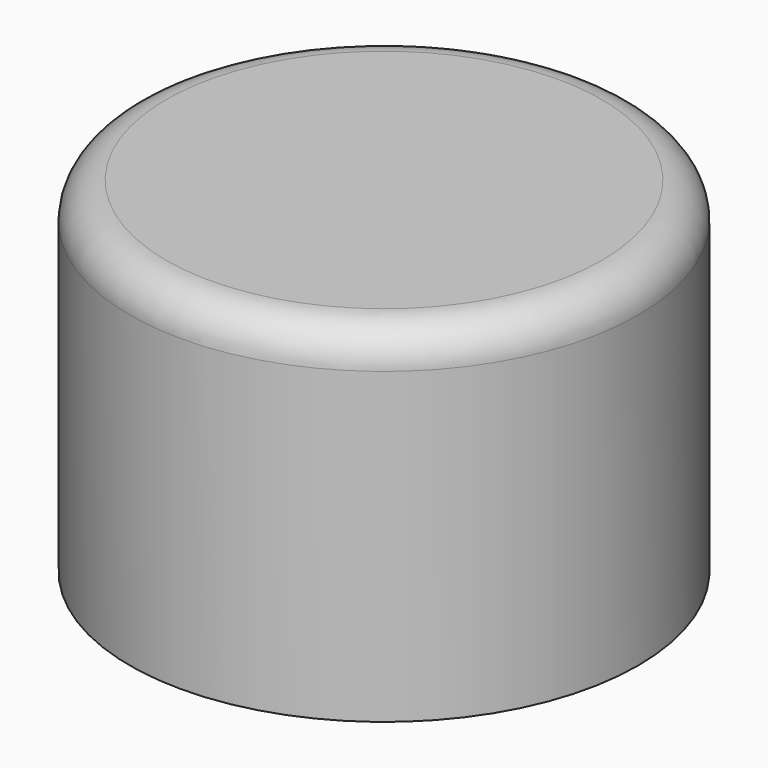
from build123d import *

# Parameters (mm, degrees)
F0_R     = 14
F0_R_2   = 12
F1_DEPTH = 16
F3_DEPTH = 2.5
F4_R     = 14
F5_DEPTH = 3
F6_R     = 2


with BuildPart() as f1:
    # F0 (on Top) → F1 (new body)
    with BuildSketch(Plane.XY):
        Circle(F0_R)
        Circle(F0_R_2, mode=Mode.SUBTRACT)
    extrude(amount=F1_DEPTH)

    # F2 (on Top) → F3 (join)
    with BuildSketch(Plane.XY):
        with BuildLine():
            Line((-11.2159206042, 0.875), (-11.968056442, 0.875))
            ThreePointArc((-11.968056442, 0.875), (-12, 0), (-11.968056442, -0.875))
            Line((-11.968056442, -0.875), (-11.2159206042, -0.875))
            ThreePointArc((-11.2159206042, -0.875), (-11.25, 0), (-11.2159206042, 0.875))
        make_face()
        with BuildLine():
            ThreePointArc((11.968056442, -0.875), (12, 0), (11.968056442, 0.875))
            Line((11.968056442, 0.875), (11.2159206042, 0.875))
            ThreePointArc((11.2159206042, 0.875), (11.25, 0), (11.2159206042, -0.875))
            Line((11.2159206042, -0.875), (11.968056442, -0.875))
        make_face()
    extrude(amount=F3_DEPTH)

    # F4 (on face) → F5 (join)
    with BuildSketch(Plane.XY.offset(16)):
        Circle(F4_R)
    extrude(amount=F5_DEPTH)

    # F6
    f6_edges = [f1.edges().sort_by_distance(p)[0] for p in [
        (-14, 0, 19),
    ]]
    fillet(f6_edges, radius=F6_R)


solid = f1.part
